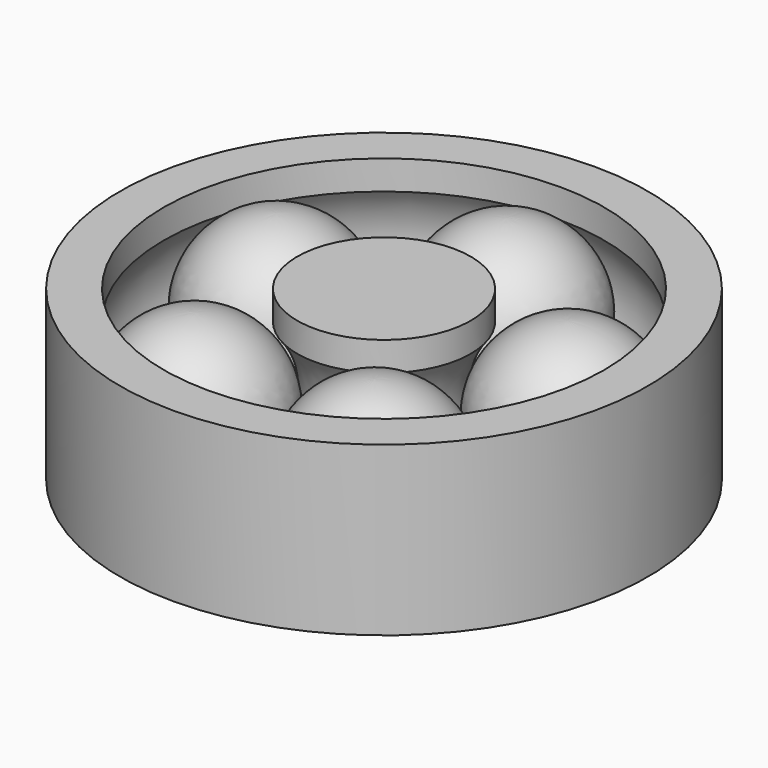
from build123d import *

# Parameters (mm, degrees)
F3_COUNT = 5


with BuildPart() as f1:
    # F0 (on Right) → F1 (revolve)
    with BuildSketch(Plane.YZ):
        with BuildLine():
            Line((3.618212, 3.5), (0, 3.5))
            Line((0, 3.5), (0, -3.5))
            Line((0, -3.5), (3.618212, -3.5))
            Line((3.618212, -3.5), (3.618212, -2.285094))
            ThreePointArc((3.618212, -2.285094), (2.8, 0), (3.618212, 2.285094))
            Line((3.618212, 2.285094), (3.618212, 3.5))
        make_face()
        with BuildLine():
            Line((9.181788, -2.285094), (9.181788, -3.5))
            Line((9.181788, -3.5), (11, -3.5))
            Line((11, -3.5), (11, 3.5))
            Line((11, 3.5), (9.181788, 3.5))
            Line((9.181788, 3.5), (9.181788, 2.285094))
            ThreePointArc((9.181788, 2.285094), (10, 0), (9.181788, -2.285094))
        make_face()
    revolve(axis=Axis((0, 0, -0.049814), (0, 0, -1)))


with BuildPart() as f2:
    # F0 (on Right) → F2 (revolve)
    with BuildSketch(Plane.YZ):
        with BuildLine():
            ThreePointArc((6.4, -3.5), (8.874874, -2.474874), (9.9, 0))
            ThreePointArc((9.9, 0), (8.874874, 2.474874), (6.4, 3.5))
            Line((6.4, 3.5), (6.4, -3.5))
        make_face()
    revolve(axis=Axis((0, 6.4, 0), (0, 0, 1)))


with BuildPart() as f3_1:
    # F3: instance of F2
    add(f2.part.rotate(Axis((0, 0, 0), (0, 0, -1)), 1 * 360 / F3_COUNT))


with BuildPart() as f3_2:
    # F3: instance of F2
    add(f2.part.rotate(Axis((0, 0, 0), (0, 0, -1)), 2 * 360 / F3_COUNT))


with BuildPart() as f3_3:
    # F3: instance of F2
    add(f2.part.rotate(Axis((0, 0, 0), (0, 0, -1)), 3 * 360 / F3_COUNT))


with BuildPart() as f3_4:
    # F3: instance of F2
    add(f2.part.rotate(Axis((0, 0, 0), (0, 0, -1)), 4 * 360 / F3_COUNT))


solid = Compound([f1.part, f2.part, f3_1.part, f3_2.part, f3_3.part, f3_4.part])
